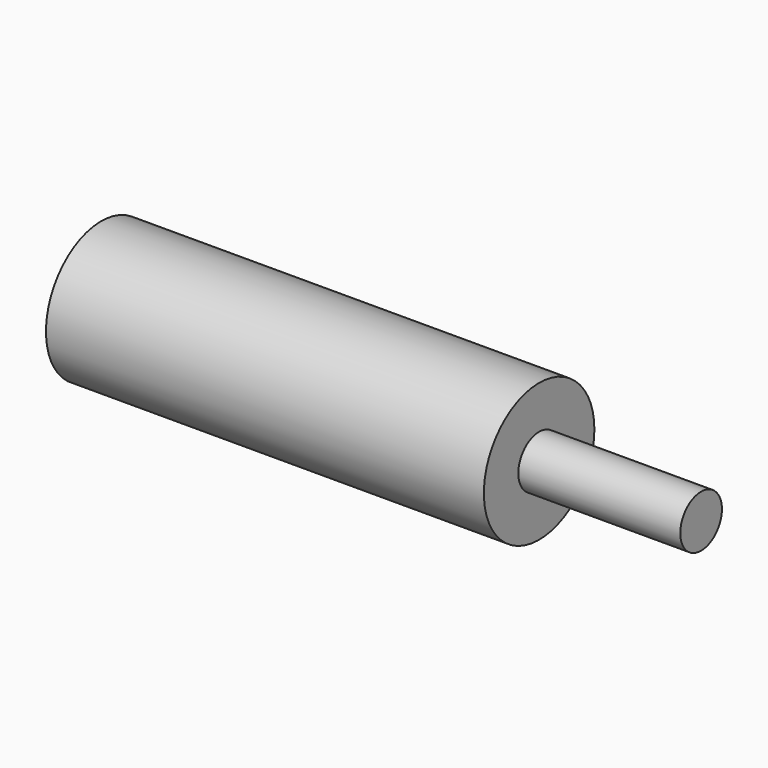
from build123d import *

# Parameters (mm, degrees)
F0_R     = 10.832434
F1_DEPTH = 68.66801
F2_R     = 4.08089
F3_DEPTH = 25.4
F4_W     = 14.424835
F4_H     = 4.475396
F5_DEPTH = 25.4


with BuildPart() as f1:
    # F0 (on Right) → F1 (new body)
    with BuildSketch(Plane.YZ):
        Circle(F0_R)
    extrude(amount=F1_DEPTH)

    # F2 (on face) → F3 (join)
    with BuildSketch(Plane.YZ.offset(68.66801)):
        Circle(F2_R)
    extrude(amount=F3_DEPTH)

    # F4 (on face) → F5 (cut)
    with BuildSketch(Plane(origin=(0, 0, 0), x_dir=(0, -1, 0), z_dir=(-1, 0, 0))):
        with Locations((-1.116385, -0.288975)):
            Rectangle(F4_W, F4_H)
    extrude(amount=-F5_DEPTH, mode=Mode.SUBTRACT)


solid = f1.part
